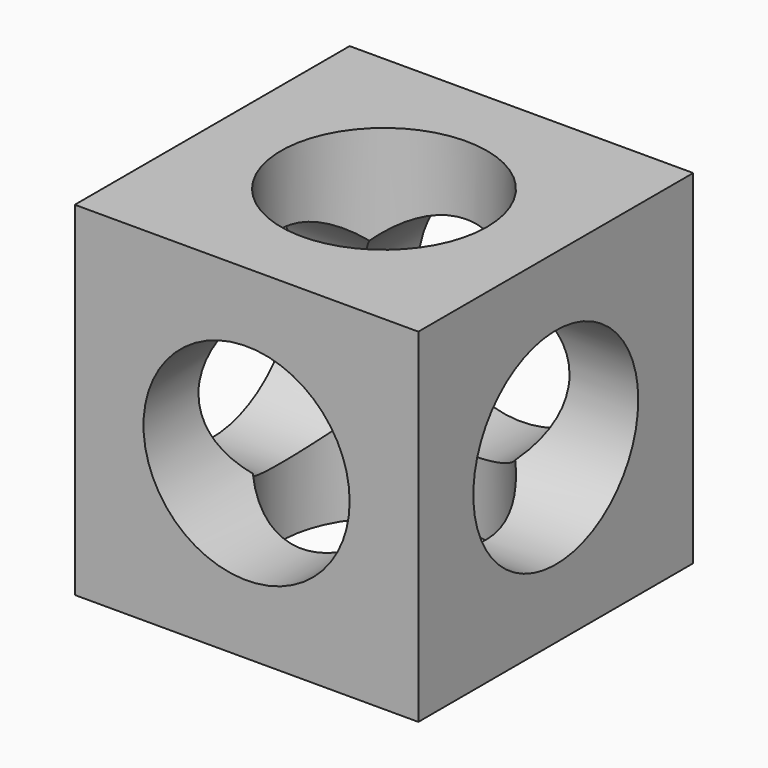
from build123d import *

# Parameters (mm, degrees)
F0_W     = 127
F0_H     = 127
F1_DEPTH = 63.5
F2_R     = 38.1
F3_DEPTH = 63.5
F4_R     = 38.1
F5_DEPTH = 63.5
F6_R     = 38.1
F7_DEPTH = 63.5


with BuildPart() as f1:
    # F0 (on Top) → F1 (new body, symmetric)
    with BuildSketch(Plane.XY):
        Rectangle(F0_W, F0_H)
    extrude(amount=F1_DEPTH, both=True)

    # F2 (on Top) → F3 (cut, symmetric)
    with BuildSketch(Plane.XY):
        Circle(F2_R)
    extrude(amount=F3_DEPTH, both=True, mode=Mode.SUBTRACT)

    # F4 (on Front) → F5 (cut, symmetric)
    with BuildSketch(Plane.XZ):
        Circle(F4_R)
    extrude(amount=F5_DEPTH, both=True, mode=Mode.SUBTRACT)

    # F6 (on Right) → F7 (cut, symmetric)
    with BuildSketch(Plane.YZ):
        Circle(F6_R)
    extrude(amount=F7_DEPTH, both=True, mode=Mode.SUBTRACT)


solid = f1.part
